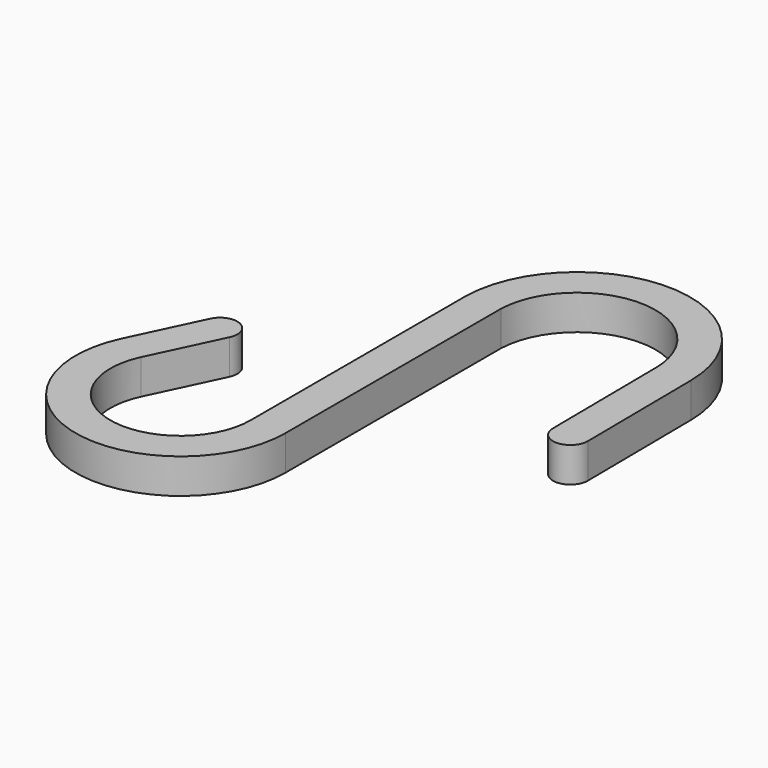
from build123d import *

# Parameters (mm, degrees)
F1_DEPTH = 4


with BuildPart() as f1:
    # F0 (on Top) → F1 (new body)
    with BuildSketch(Plane.XY):
        with BuildLine():
            Line((-2.976375, 19.344095), (-3.124821, 34.343361))
            ThreePointArc((-3.124821, 34.343361), (-15.992878, 47.214044), (-29.118296, 34.60592))
            Line((-29.118296, 34.60592), (-29.118296, 3.60592))
            ThreePointArc((-29.118296, 3.60592), (-38.937278, -4.248219), (-44.442996, 7.05607))
            Line((-44.442996, 7.05607), (-40.660601, 15.030515))
            ThreePointArc((-40.660601, 15.030515), (-41.610533, 17.694653), (-44.274671, 16.744721))
            Line((-44.274671, 16.744721), (-48.057066, 8.770276))
            ThreePointArc((-48.057066, 8.770276), (-39.815834, -8.150543), (-25.118296, 3.60592))
            Line((-25.118296, 3.60592), (-25.118296, 34.540199))
            ThreePointArc((-25.118296, 34.540199), (-16.005941, 43.213931), (-7.124625, 34.303775))
            Line((-7.124625, 34.303775), (-6.976179, 19.30451))
            ThreePointArc((-6.976179, 19.30451), (-4.956484, 17.3244), (-2.976375, 19.344095))
        make_face()
    extrude(amount=F1_DEPTH)


solid = f1.part
